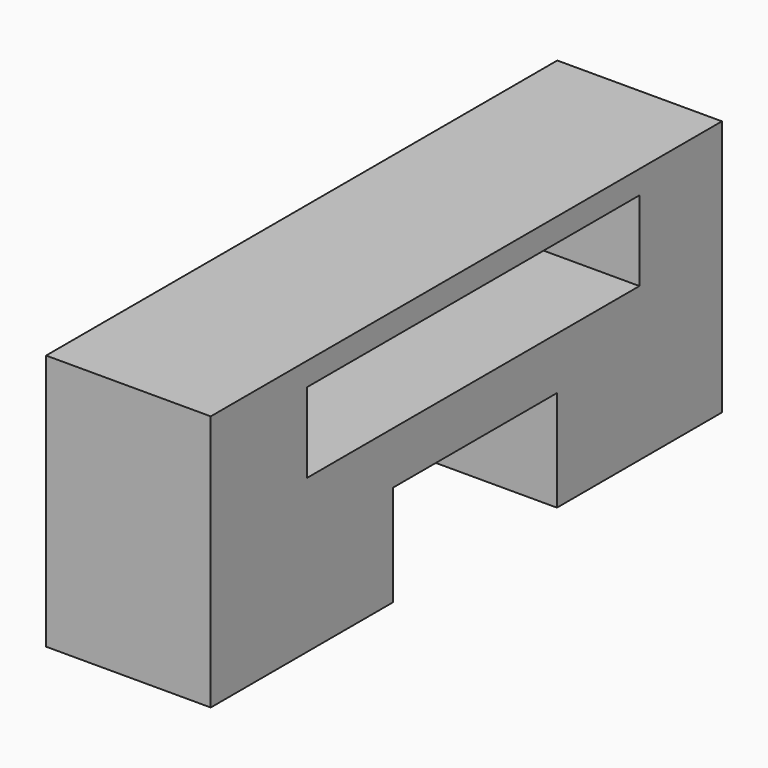
from build123d import *

# Parameters (mm, degrees)
F0_W     = 64.072005
F0_H     = 12.32154
F1_DEPTH = 25.4


with BuildPart() as f1:
    # F0 (on Right) → F1 (new body)
    with BuildSketch(Plane.YZ):
        Polygon((0, 39.540943), (0, 0), (35.172395, 0), (35.172395, 15.569946), (50.966371, 15.569946), (66.760346, 15.569946), (66.760346, 0), (98.572329, 0), (98.572329, 39.540943), align=None)
        with Locations((50.630327, 29.795725)):
            Rectangle(F0_W, F0_H, mode=Mode.SUBTRACT)
    extrude(amount=F1_DEPTH)


solid = f1.part
